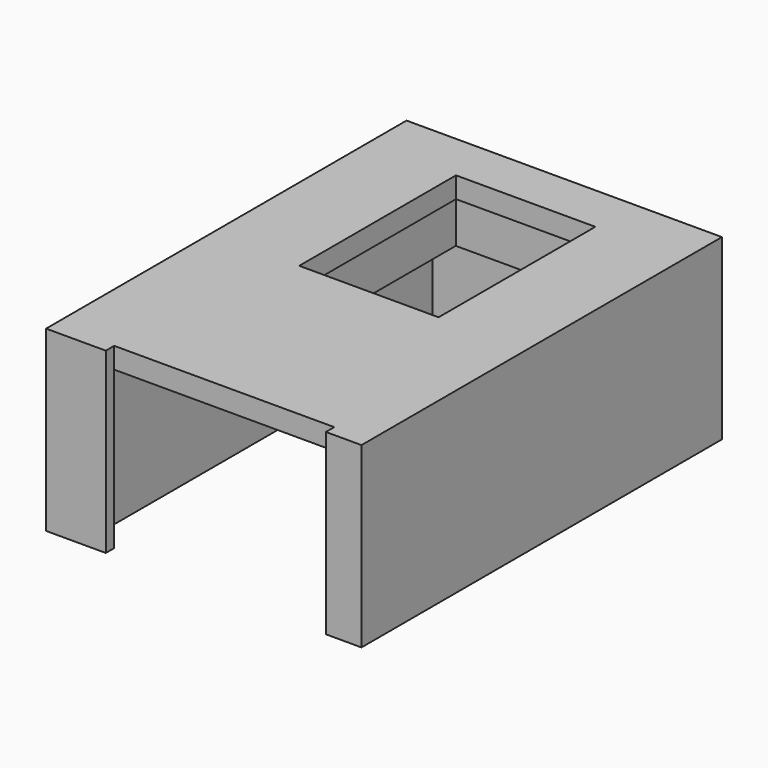
from build123d import *

# Parameters (mm, degrees)
PAD001_DEPTH    = 17
SKETCH008_W     = 25.8
SKETCH008_H     = 41
POCKET005_DEPTH = 15
SKETCH009_W     = 13.3
SKETCH009_H     = 18.7
POCKET006_DEPTH = 5
SKETCH010_W     = 2.3
SKETCH010_H     = 43
PAD002_DEPTH    = 17
SKETCH011_W     = 2
SKETCH011_H     = 18.9
SKETCH011_W_2   = 17.5
SKETCH011_H_2   = 2
PAD003_DEPTH    = 6


with BuildPart() as part:
    # Sketch007 → Pad001 (new body)
    with BuildSketch(Plane.XY):
        Polygon((17.6, 21.5), (45.4, 21.5), (45.4, -21.5), (42, -21.5), (42, -20.5), (21, -20.5), (21, -21.5), (17.6, -21.5), align=None)
    extrude(amount=PAD001_DEPTH)

    # Sketch008 (on Face9 of Pad001) → Pocket005 (cut)
    with BuildSketch(Plane(origin=(0, 0, 0), x_dir=(1, 0, 0), z_dir=(0, 0, -1))):
        with Locations((31.5, 0)):
            Rectangle(SKETCH008_W, SKETCH008_H)
    extrude(amount=-POCKET005_DEPTH, mode=Mode.SUBTRACT)

    # Sketch009 (on Face5 of Pocket005) → Pocket006 (cut)
    with BuildSketch(Plane.XY.offset(17)):
        with Locations((30.35, 7.55)):
            Rectangle(SKETCH009_W, SKETCH009_H)
    extrude(amount=-POCKET006_DEPTH, mode=Mode.SUBTRACT)

    # Sketch010 → Pad002 (join)
    with BuildSketch(Plane.XY):
        with Locations((16.45, 0)):
            Rectangle(SKETCH010_W, SKETCH010_H)
    extrude(amount=PAD002_DEPTH)

    # Sketch011 (on Face5 of Pad002) → Pad003 (join)
    with BuildSketch(Plane.XY.offset(17)):
        with Locations((38.1, 7.55)):
            Rectangle(SKETCH011_W, SKETCH011_H)
        with Locations((22.6, 7.55)):
            Rectangle(SKETCH011_W, SKETCH011_H)
        with Locations((30.35, 18)):
            Rectangle(SKETCH011_W_2, SKETCH011_H_2)
        with Locations((30.35, -2.9)):
            Rectangle(SKETCH011_W_2, SKETCH011_H_2)
    extrude(amount=-PAD003_DEPTH)


with BuildPart() as part_1:
    # Body001 placement: moved
    add(part.part.moved(Location((10, 0, 0))))


solid = part_1.part
